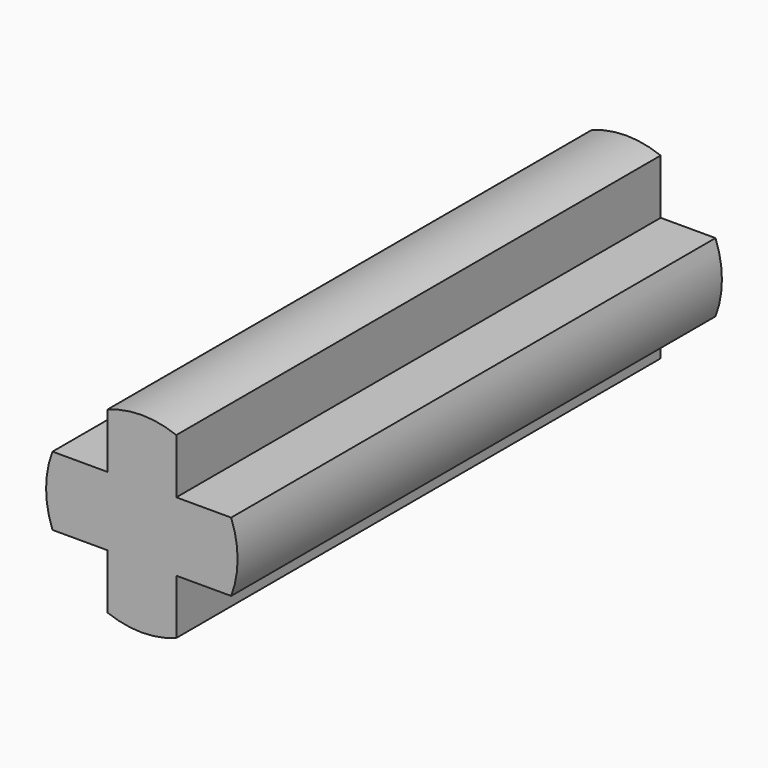
from build123d import *

# Parameters (mm, degrees)
F0_W     = 1.8
F0_H     = 1.8
F1_DEPTH = 7.9


with BuildPart() as f1:
    # F0 (on Front) → F1 (new body, symmetric)
    with BuildSketch(Plane.XZ):
        with BuildLine():
            Line((0.9, 0.9), (0.9, 2.3313088598))
            ThreePointArc((0.9, 2.3313088598), (0, 2.499), (-0.9, 2.3313088598))
            Line((-0.9, 2.3313088598), (-0.9, 0.9))
            Line((-0.9, 0.9), (0.9, 0.9))
        make_face()
        with BuildLine():
            Line((2.3313088598, 0.9), (0.9, 0.9))
            Line((0.9, 0.9), (0.9, -0.9))
            Line((0.9, -0.9), (2.3313088598, -0.9))
            ThreePointArc((2.3313088598, -0.9), (2.499, 0), (2.3313088598, 0.9))
        make_face()
        Rectangle(F0_W, F0_H)
        with BuildLine():
            Line((0.9, -2.3313088598), (0.9, -0.9))
            Line((0.9, -0.9), (-0.9, -0.9))
            Line((-0.9, -0.9), (-0.9, -2.3313088598))
            ThreePointArc((-0.9, -2.3313088598), (0, -2.499), (0.9, -2.3313088598))
        make_face()
        with BuildLine():
            Line((-0.9, -0.9), (-0.9, 0.9))
            Line((-0.9, 0.9), (-2.3313088598, 0.9))
            ThreePointArc((-2.3313088598, 0.9), (-2.499, 0), (-2.3313088598, -0.9))
            Line((-2.3313088598, -0.9), (-0.9, -0.9))
        make_face()
    extrude(amount=F1_DEPTH, both=True)


solid = f1.part
